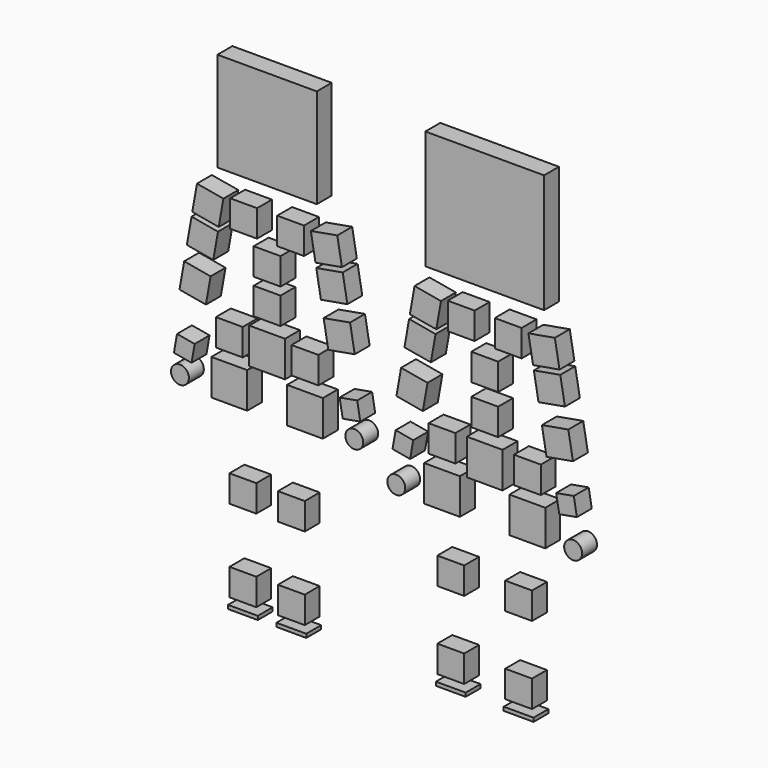
from build123d import *

# Parameters (mm, degrees)
F2_W     = 36
F2_H     = 36
F2_W_2   = 48
F2_H_2   = 48
F2_W_3   = 159.25
F2_H_3   = 159.25
F2_W_4   = 40
F2_H_4   = 5
F2_W_5   = 133.25
F2_H_5   = 133.25
F2_R     = 12
F3_DEPTH = 25


with BuildPart() as f3:
    # F2 (on Front) → F3 (new body)
    with BuildSketch(Plane.XZ):
        with Locations((166.394444, 32.5)):
            Rectangle(F2_W, F2_H)
        with Locations((166.394444, 136.5)):
            Rectangle(F2_W, F2_H)
        with Locations((178.144444, 234)):
            Rectangle(F2_W_2, F2_H_2)
        with Locations((178.144444, 289)):
            Rectangle(F2_W, F2_H)
        with Locations((120.894444, 283.77477)):
            Rectangle(F2_W_2, F2_H_2)
        with Locations((120.894444, 338.77477)):
            Rectangle(F2_W, F2_H)
        with Locations((120.894444, 391.981006)):
            Rectangle(F2_W, F2_H)
        with Locations((152.394444, 442)):
            Rectangle(F2_W, F2_H)
        Polygon((203.852983, 318.727787), (239.306062, 324.979121), (233.054727, 360.4322), (197.601648, 354.180866), align=None)
        Polygon((193.086796, 379.785868), (228.539875, 386.037202), (222.28854, 421.490281), (186.835461, 415.238947), align=None)
        Polygon((185.793572, 421.147793), (221.246651, 427.399128), (214.995317, 462.852207), (179.542238, 456.600872), align=None)
        Polygon((216.742486, 280.180404), (220.910042, 256.545018), (244.545428, 260.712575), (240.377872, 284.347961), align=None)
        with Locations((120.894444, 570.375)):
            Rectangle(F2_W_3, F2_H_3)
        with Locations((166.394444, 2.5)):
            Rectangle(F2_W_4, F2_H_4)
        with Locations((75.394444, 2.5)):
            Rectangle(F2_W_4, F2_H_4)
        Polygon((20.542238, 427.399128), (55.995317, 421.147793), (62.246651, 456.600872), (26.793572, 462.852207), align=None)
        with Locations((89.394444, 442)):
            Rectangle(F2_W, F2_H)
        Polygon((20.878847, 256.545018), (25.046403, 280.180404), (1.411017, 284.347961), (-2.756539, 260.712575), align=None)
        with Locations((75.394444, 136.5)):
            Rectangle(F2_W, F2_H)
        with Locations((63.644444, 234)):
            Rectangle(F2_W_2, F2_H_2)
        with Locations((75.394444, 32.5)):
            Rectangle(F2_W, F2_H)
        with Locations((63.644444, 289)):
            Rectangle(F2_W, F2_H)
        Polygon((8.734162, 360.4322), (2.482827, 324.979121), (37.935906, 318.727787), (44.187241, 354.180866), align=None)
        Polygon((54.953428, 415.238947), (19.500349, 421.490281), (13.249014, 386.037202), (48.702093, 379.785868), align=None)
        with Locations((-138.444444, 32.5)):
            Rectangle(F2_W, F2_H)
        with Locations((-138.444444, 143)):
            Rectangle(F2_W, F2_H)
        with Locations((-120.194444, 266.5)):
            Rectangle(F2_W_2, F2_H_2)
        with Locations((-120.194444, 321.5)):
            Rectangle(F2_W, F2_H)
        with Locations((-170.944444, 320.028752)):
            Rectangle(F2_W_2, F2_H_2)
        with Locations((-170.944444, 375.028752)):
            Rectangle(F2_W, F2_H)
        with Locations((-170.944444, 421.647191)):
            Rectangle(F2_W, F2_H)
        with Locations((-139.444444, 468)):
            Rectangle(F2_W, F2_H)
        Polygon((-88.888877, 349.848787), (-53.435798, 356.100122), (-59.687132, 391.553201), (-95.140211, 385.301866), align=None)
        Polygon((-98.752093, 405.785868), (-63.299014, 412.037202), (-69.550349, 447.490281), (-105.003428, 441.238947), align=None)
        Polygon((-106.045317, 447.147793), (-70.592238, 453.399128), (-76.843572, 488.852207), (-112.296651, 482.600872), align=None)
        Polygon((-73.741947, 298.498904), (-69.574391, 274.863518), (-45.939005, 279.031074), (-50.106561, 302.66646), align=None)
        with Locations((-170.944444, 583.375)):
            Rectangle(F2_W_5, F2_H_5)
        with Locations((-138.444444, 2.5)):
            Rectangle(F2_W_4, F2_H_4)
        with Locations((-203.444444, 2.5)):
            Rectangle(F2_W_4, F2_H_4)
        Polygon((-271.296651, 453.399128), (-235.843572, 447.147793), (-229.592238, 482.600872), (-265.045317, 488.852207), align=None)
        with Locations((-202.444444, 468)):
            Rectangle(F2_W, F2_H)
        Polygon((-272.314498, 274.863518), (-268.146942, 298.498904), (-291.782328, 302.66646), (-295.949884, 279.031074), align=None)
        with Locations((-203.444444, 143)):
            Rectangle(F2_W, F2_H)
        with Locations((-221.694444, 266.5)):
            Rectangle(F2_W_2, F2_H_2)
        with Locations((-203.444444, 32.5)):
            Rectangle(F2_W, F2_H)
        with Locations((-221.694444, 321.5)):
            Rectangle(F2_W, F2_H)
        Polygon((-282.201757, 391.553201), (-288.453091, 356.100122), (-253.000012, 349.848787), (-246.748678, 385.301866), align=None)
        Polygon((-236.885461, 441.238947), (-272.33854, 447.490281), (-278.589875, 412.037202), (-243.136796, 405.785868), align=None)
        with Locations((239.508696, 220.172054)):
            Circle(F2_R)
        with Locations((-54.023262, 255.773929)):
            Circle(F2_R)
        with Locations((-287.865627, 255.773929)):
            Circle(F2_R)
        with Locations((2.280192, 220.172054)):
            Circle(F2_R)
    extrude(amount=F3_DEPTH)


solid = f3.part
